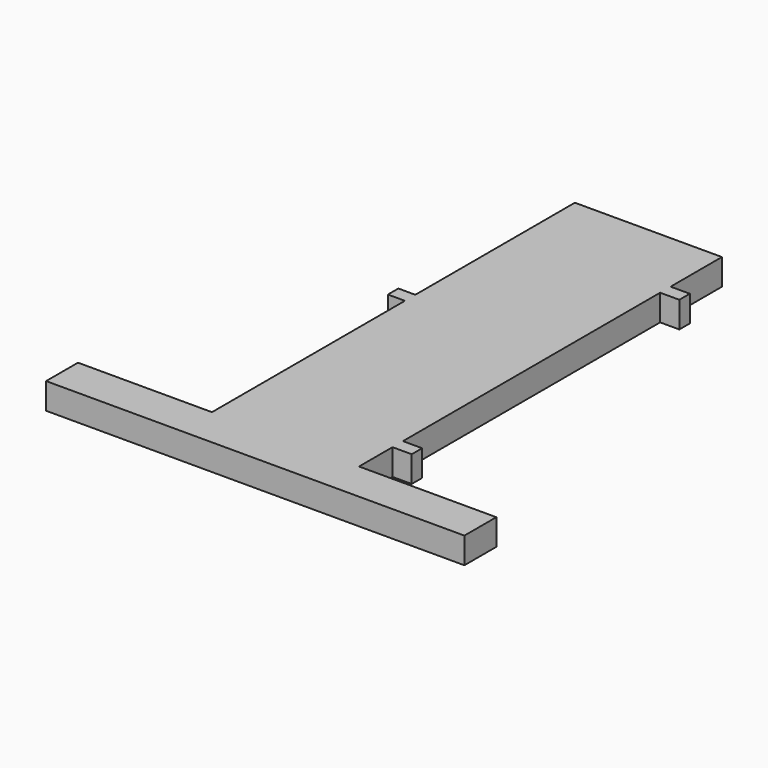
from build123d import *

# Parameters (mm, degrees)
F1_DEPTH = 40


with BuildPart() as f1:
    # F0 (on Top) → F1 (new body)
    with BuildSketch(Plane.XY):
        Polygon((-640, 0), (0, 0), (0, 61), (-210, 61), (-210, 125), (-180.6, 125), (-180.6, 145), (-210, 145), (-210, 636.85), (-180.6, 636.85), (-180.6, 656.85), (-210, 656.85), (-210, 755), (-435, 755), (-435, 449.95), (-461, 449.95), (-461, 429.95), (-435, 429.95), (-435, 61), (-640, 61), align=None)
    extrude(amount=F1_DEPTH)


solid = f1.part
